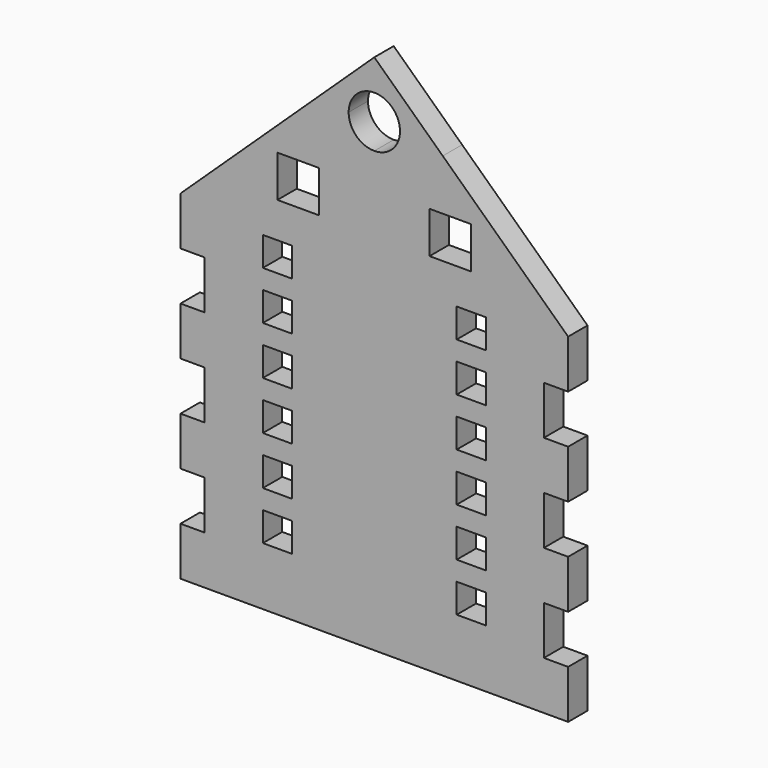
from build123d import *

# Parameters (mm, degrees)
F0_W     = 6
F0_H     = 6
F0_W_2   = 1.507329056
F0_H_2   = 5.8719553053
F0_W_3   = 8.6
F0_H_3   = 8.6
F1_DEPTH = 5


with BuildPart() as f1:
    # F0 (on Front) → F1 (new body)
    with BuildSketch(Plane.XZ):
        Polygon((-40, 10), (-40, 0), (-1.507329056, 0), (-1.507329056, 5.8719553053), (0, 5.8719553053), (0, 70), (-40, 70), (-40, 60), (-35, 60), (-35, 50), (-40, 50), (-40, 40), (-35, 40), (-35, 30), (-40, 30), (-40, 20), (-35, 20), (-35, 10), align=None)
        with Locations((-20, 15)):
            Rectangle(F0_W, F0_H, mode=Mode.SUBTRACT)
        with Locations((-20, 25)):
            Rectangle(F0_W, F0_H, mode=Mode.SUBTRACT)
        with Locations((-20, 35)):
            Rectangle(F0_W, F0_H, mode=Mode.SUBTRACT)
        with Locations((-20, 45)):
            Rectangle(F0_W, F0_H, mode=Mode.SUBTRACT)
        with Locations((-20, 55)):
            Rectangle(F0_W, F0_H, mode=Mode.SUBTRACT)
        with Locations((-20, 65)):
            Rectangle(F0_W, F0_H, mode=Mode.SUBTRACT)
        with Locations((-0.753664528, 2.9359776527)):
            Rectangle(F0_W_2, F0_H_2)
        with Locations((0.753664528, 2.9359776527)):
            Rectangle(F0_W_2, F0_H_2)
        Polygon((0, 70), (0, 5.8719553053), (1.507329056, 5.8719553053), (1.507329056, 0), (40, 0), (40, 10), (35, 10), (35, 20), (40, 20), (40, 30), (35, 30), (35, 40), (40, 40), (40, 50), (35, 50), (35, 60), (40, 60), (40, 70), align=None)
        with Locations((20, 15)):
            Rectangle(F0_W, F0_H, mode=Mode.SUBTRACT)
        with Locations((20, 25)):
            Rectangle(F0_W, F0_H, mode=Mode.SUBTRACT)
        with Locations((20, 35)):
            Rectangle(F0_W, F0_H, mode=Mode.SUBTRACT)
        with Locations((20, 45)):
            Rectangle(F0_W, F0_H, mode=Mode.SUBTRACT)
        with Locations((20, 55)):
            Rectangle(F0_W, F0_H, mode=Mode.SUBTRACT)
        with Locations((20, 65)):
            Rectangle(F0_W, F0_H, mode=Mode.SUBTRACT)
        Polygon((-40, 70), (0, 70), (40, 70), (14.1260570447, 94.4179981875), (0, 107.7491721764), (-14.1260570447, 94.4179981875), align=None)
        with Locations((-15.7, 79.6245860882)):
            Rectangle(F0_W_3, F0_H_3, mode=Mode.SUBTRACT)
        with Locations((15.7, 79.6245860882)):
            Rectangle(F0_W_3, F0_H_3, mode=Mode.SUBTRACT)
        with BuildLine():
            ThreePointArc((0, 101.3324183106), (3.7476659403, 99.7800842509), (5.3, 96.0324183106))
            ThreePointArc((5.3, 96.0324183106), (3.7476659403, 92.2847523704), (0, 90.7324183106))
            ThreePointArc((0, 90.7324183106), (-3.7476659403, 92.2847523704), (-5.3, 96.0324183106))
            ThreePointArc((-5.3, 96.0324183106), (-3.7476659403, 99.7800842509), (0, 101.3324183106))
        make_face(mode=Mode.SUBTRACT)
    extrude(amount=F1_DEPTH)


solid = f1.part
